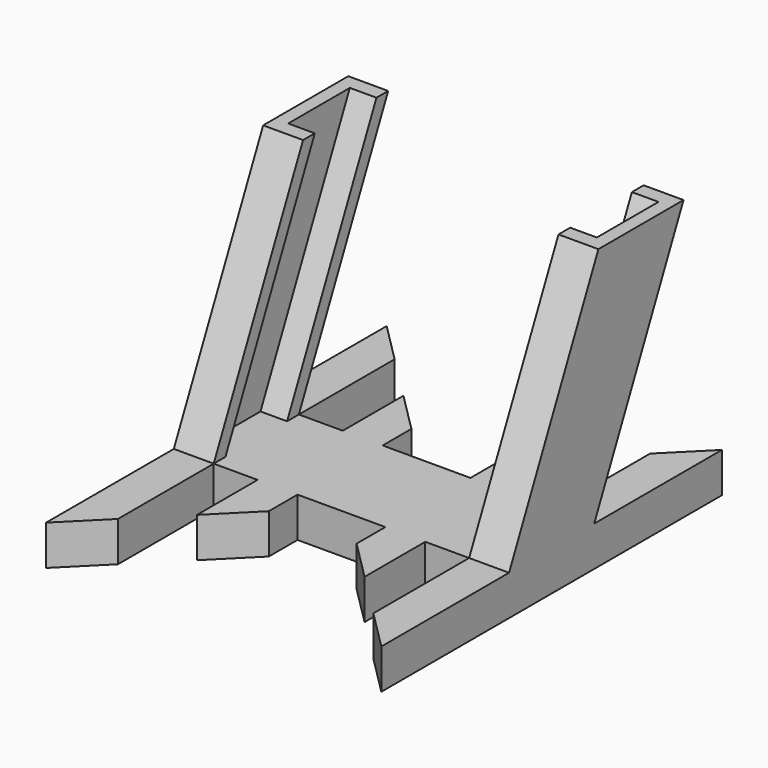
from build123d import *

# Parameters (mm, degrees)
F1_DEPTH = 31.5
F2_DEPTH = 29
F3_DEPTH = 24
F5_DEPTH = 7.5


with BuildPart() as f1:
    # F0 (on Right) → F1 (new body, symmetric)
    with BuildSketch(Plane.YZ):
        Polygon((20.983844617, 45), (0, 0), (2.7584447974, 0), (23.7422894144, 45), align=None)
        Polygon((23.7422894144, 45), (2.7584447974, 0), (17.2415552026, 0), (38.2253998196, 45), align=None)
        Polygon((38.2253998196, 45), (17.2415552026, 0), (20, 0), (40.983844617, 45), align=None)
    extrude(amount=F1_DEPTH, both=True)

    # F0 (on Right) → F2 (cut, symmetric)
    with BuildSketch(Plane.YZ):
        Polygon((23.7422894144, 45), (2.7584447974, 0), (17.2415552026, 0), (38.2253998196, 45), align=None)
    extrude(amount=F2_DEPTH, both=True, mode=Mode.SUBTRACT)

    # F0 (on Right) → F3 (cut, symmetric)
    with BuildSketch(Plane.YZ):
        Polygon((20.983844617, 45), (0, 0), (2.7584447974, 0), (23.7422894144, 45), align=None)
        Polygon((23.7422894144, 45), (2.7584447974, 0), (17.2415552026, 0), (38.2253998196, 45), align=None)
        Polygon((38.2253998196, 45), (17.2415552026, 0), (20, 0), (40.983844617, 45), align=None)
    extrude(amount=F3_DEPTH, both=True, mode=Mode.SUBTRACT)

    # F4 (on Top) → F5 (join)
    with BuildSketch(Plane.XY):
        Polygon((-31.5, 50), (-31.5, 20), (-31.5, 0), (-31.5, -30), (-24, -22.5), (-24, 0), (-15.75, 0), (-8.25, 0), (8.25, 0), (15.75, 0), (24, 0), (24, -22.5), (31.5, -30), (31.5, 0), (31.5, 20), (31.5, 50), (24, 42.5), (24, 20), (15.75, 20), (8.25, 20), (-8.25, 20), (-15.75, 20), (-24, 20), (-24, 42.5), align=None)
        Polygon((-15.75, 34.25), (-15.75, 20), (-8.25, 20), (-8.25, 26.75), align=None)
        Polygon((-8.25, 0), (-15.75, 0), (-15.75, -14.25), (-8.25, -6.75), align=None)
        Polygon((15.75, 0), (8.25, 0), (8.25, -6.75), (15.75, -14.25), align=None)
        Polygon((8.25, 26.75), (8.25, 20), (15.75, 20), (15.75, 34.25), align=None)
    extrude(amount=-F5_DEPTH)


solid = f1.part
